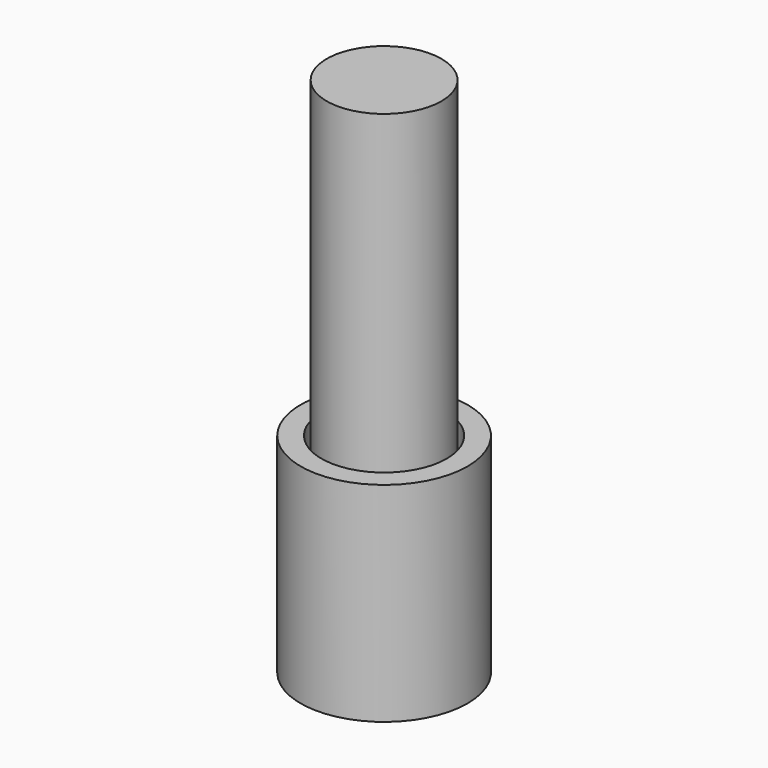
from build123d import *

# Parameters (mm, degrees)
F0_R     = 4
F0_R_2   = 3
F1_DEPTH = 10
F2_R     = 2.75
F3_DEPTH = 25


with BuildPart() as f1:
    # F0 (on Top) → F1 (new body)
    with BuildSketch(Plane.XY):
        Circle(F0_R)
        Circle(F0_R_2, mode=Mode.SUBTRACT)
    extrude(amount=F1_DEPTH)


with BuildPart() as f3:
    # F2 (on face) → F3 (new body)
    with BuildSketch(Plane.XY):
        Circle(F2_R)
    extrude(amount=F3_DEPTH)


solid = Compound([f1.part, f3.part])
